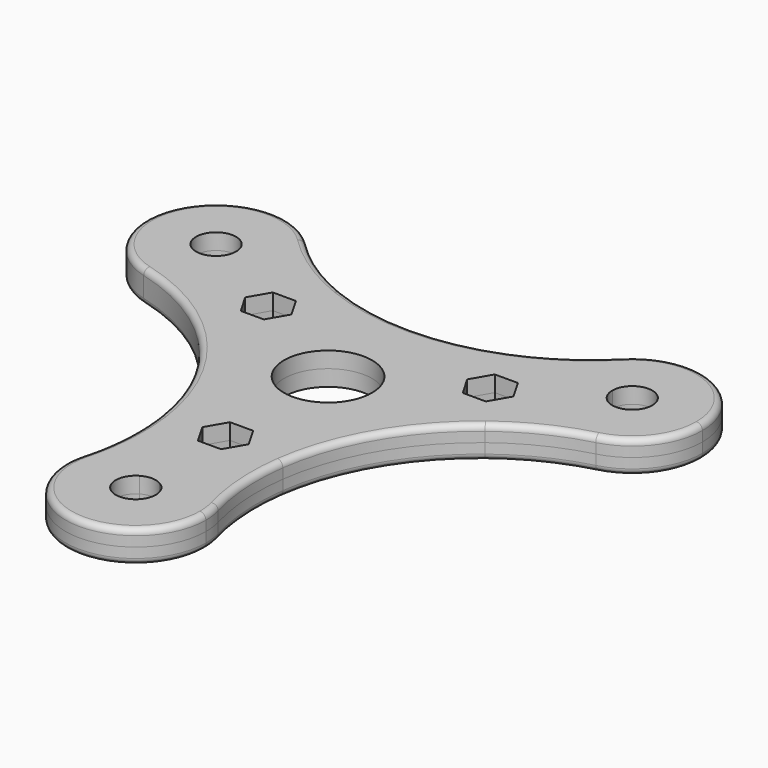
from build123d import *

# Parameters (mm, degrees)
F0_R     = 11
F1_DEPTH = 4
F2_R     = 1.5


with BuildPart() as f1:
    # F0 (on Top) → F1 (new body, symmetric)
    with BuildSketch(Plane.XY):
        with BuildLine():
            ThreePointArc((-49.4615242271, 25.6698729811), (-56.291651246, 32.5), (-46.9615242271, 30))
            Line((-46.9615242271, 30), (-34.4615242271, 30))
            ThreePointArc((-34.4615242271, 30), (-35.7961826657, 36.7031136202), (-39.5965793363, 42.3837852795))
            ThreePointArc((-39.5965793363, 42.3837852795), (-67.1201709813, 38.7444513024), (-56.491349512, 13.0964298775))
            ThreePointArc((-56.491349512, 13.0964298775), (-49.6775683614, 12.6496816858), (-43.2115242271, 14.8445554338))
            Line((-43.2115242271, 14.8445554338), (-49.4615242271, 25.6698729811))
        make_face()
        with BuildLine():
            Line((-34.4615242271, 30), (-46.9615242271, 30))
            ThreePointArc((-46.9615242271, 30), (-47.6313972081, 27.5), (-49.4615242271, 25.6698729811))
            Line((-49.4615242271, 25.6698729811), (-43.2115242271, 14.8445554338))
            ThreePointArc((-43.2115242271, 14.8445554338), (-36.8060796608, 21.25), (-34.4615242271, 30))
        make_face()
        with BuildLine():
            ThreePointArc((-39.5965793363, 42.3837852795), (-35.7961826657, 36.7031136202), (-34.4615242271, 30))
            Line((-34.4615242271, 30), (-20.7924404868, 30))
            ThreePointArc((-20.7924404868, 30), (-30.8228480718, 35.2377935703), (-39.5965793363, 42.3837852795))
        make_face()
        with BuildLine():
            Line((-36.3996261046, 3.0460017896), (-43.2115242271, 14.8445554338))
            ThreePointArc((-43.2115242271, 14.8445554338), (-49.6775683614, 12.6496816858), (-56.491349512, 13.0964298775))
            ThreePointArc((-56.491349512, 13.0964298775), (-45.9362059549, 9.0893167587), (-36.3996261046, 3.0460017896))
        make_face()
        with BuildLine():
            Line((-2.5, -55.6698729811), (-8.75, -44.8445554338))
            ThreePointArc((-8.75, -44.8445554338), (-13.883838491, -49.3468770421), (-16.9038337833, -55.4711587102))
            ThreePointArc((-16.9038337833, -55.4711587102), (-2.2839558657, -77.3503183142), (17.5, -60))
            ThreePointArc((17.5, -60), (17.3438949461, -57.6677675721), (16.8783647888, -55.3771435177))
            ThreePointArc((16.8783647888, -55.3771435177), (13.8541374099, -49.3082799968), (8.75, -44.8445554338))
            Line((8.75, -44.8445554338), (2.5, -55.6698729811))
            ThreePointArc((2.5, -55.6698729811), (4.3301270189, -57.5), (5, -60))
            ThreePointArc((5, -60), (-2.5, -64.3301270189), (-2.5, -55.6698729811))
        make_face()
        with BuildLine():
            Line((-8.75, -44.8445554338), (-15.5618981225, -33.0460017896))
            ThreePointArc((-15.5618981225, -33.0460017896), (-15.0965237613, -44.3265796898), (-16.9038337833, -55.4711587102))
            ThreePointArc((-16.9038337833, -55.4711587102), (-13.883838491, -49.3468770421), (-8.75, -44.8445554338))
        make_face()
        with BuildLine():
            ThreePointArc((8.75, -44.8445554338), (0, -42.5), (-8.75, -44.8445554338))
            Line((-8.75, -44.8445554338), (-2.5, -55.6698729811))
            ThreePointArc((-2.5, -55.6698729811), (0, -55), (2.5, -55.6698729811))
            Line((2.5, -55.6698729811), (8.75, -44.8445554338))
        make_face()
        with BuildLine():
            Line((15.3929289028, -33.3386650631), (8.75, -44.8445554338))
            ThreePointArc((8.75, -44.8445554338), (13.8541374099, -49.3082799968), (16.8783647888, -55.3771435177))
            ThreePointArc((16.8783647888, -55.3771435177), (15.0298342217, -44.4324381907), (15.3929289028, -33.3386650631))
        make_face()
        with BuildLine():
            Line((-20.7924404868, 30), (-34.4615242271, 30))
            ThreePointArc((-34.4615242271, 30), (-36.8060796608, 21.25), (-43.2115242271, 14.8445554338))
            Line((-43.2115242271, 14.8445554338), (-36.3996261046, 3.0460017896))
            ThreePointArc((-36.3996261046, 3.0460017896), (-22.4973636114, -12.9888589371), (-15.5618981225, -33.0460017896))
            Line((-15.5618981225, -33.0460017896), (-8.75, -44.8445554338))
            ThreePointArc((-8.75, -44.8445554338), (0, -42.5), (8.75, -44.8445554338))
            Line((8.75, -44.8445554338), (15.3929289028, -33.3386650631))
            ThreePointArc((15.3929289028, -33.3386650631), (22.3504751723, -12.9040528573), (36.5685953243, 3.3386650631))
            Line((36.5685953243, 3.3386650631), (43.2115242271, 14.8445554338))
            ThreePointArc((43.2115242271, 14.8445554338), (36.8060796608, 21.25), (34.4615242271, 30))
            Line((34.4615242271, 30), (20.7924404868, 30))
            ThreePointArc((20.7924404868, 30), (0, 26), (-20.7924404868, 30))
        make_face()
        Polygon((-5.7735026919, -32), (-2.8867513459, -27), (2.8867513459, -27), (5.7735026919, -32), (2.8867513459, -37), (-2.8867513459, -37), align=None, mode=Mode.SUBTRACT)
        Polygon((-24.8260615752, 21), (-21.9393102292, 16), (-24.8260615752, 11), (-30.5995642671, 11), (-33.486315613, 16), (-30.5995642671, 21), align=None, mode=Mode.SUBTRACT)
        Circle(F0_R, mode=Mode.SUBTRACT)
        Polygon((30.5995642671, 11), (24.8260615752, 11), (21.9393102292, 16), (24.8260615752, 21), (30.5995642671, 21), (33.486315613, 16), align=None, mode=Mode.SUBTRACT)
        with BuildLine():
            Line((46.9615242271, 30), (34.4615242271, 30))
            ThreePointArc((34.4615242271, 30), (36.8060796608, 21.25), (43.2115242271, 14.8445554338))
            Line((43.2115242271, 14.8445554338), (49.4615242271, 25.6698729811))
            ThreePointArc((49.4615242271, 25.6698729811), (47.6313972081, 27.5), (46.9615242271, 30))
        make_face()
        with BuildLine():
            ThreePointArc((56.3971954698, 13.0714790774), (49.6292917991, 12.6561050539), (43.2115242271, 14.8445554338))
            Line((43.2115242271, 14.8445554338), (36.5685953243, 3.3386650631))
            ThreePointArc((36.5685953243, 3.3386650631), (45.994537336, 9.2000008447), (56.3971954698, 13.0714790774))
        make_face()
        with BuildLine():
            ThreePointArc((39.5965793363, 42.3837852795), (35.7961826657, 36.7031136202), (34.4615242271, 30))
            Line((34.4615242271, 30), (46.9615242271, 30))
            ThreePointArc((46.9615242271, 30), (51.9615242271, 35), (56.9615242271, 30))
            ThreePointArc((56.9615242271, 30), (54.4615242271, 25.6698729811), (49.4615242271, 25.6698729811))
            Line((49.4615242271, 25.6698729811), (43.2115242271, 14.8445554338))
            ThreePointArc((43.2115242271, 14.8445554338), (49.6292917991, 12.6561050539), (56.3971954698, 13.0714790774))
            ThreePointArc((56.3971954698, 13.0714790774), (65.815661637, 19.3082799968), (69.4615242271, 30))
            ThreePointArc((69.4615242271, 30), (58.6646378473, 46.1653415613), (39.5965793363, 42.3837852795))
        make_face()
        with BuildLine():
            ThreePointArc((39.5965793363, 42.3837852795), (30.8228480718, 35.2377935703), (20.7924404868, 30))
            Line((20.7924404868, 30), (34.4615242271, 30))
            ThreePointArc((34.4615242271, 30), (35.7961826657, 36.7031136202), (39.5965793363, 42.3837852795))
        make_face()
    extrude(amount=F1_DEPTH, both=True)

    # F2
    f2_edges = [f1.edges().sort_by_distance(p)[0] for p in [
        (-22.497364, -12.988859, 4),
        (-22.497364, -12.988859, -4),
    ]]
    fillet(f2_edges, radius=F2_R)


solid = f1.part
